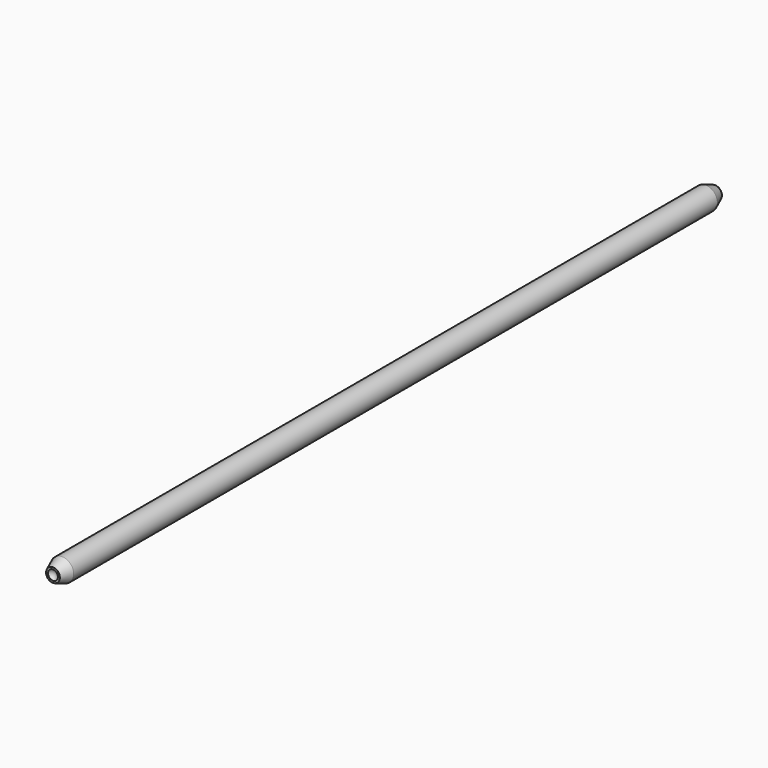
from build123d import *

# Parameters (mm, degrees)
SKETCH_R      = 1
PAD_DEPTH     = 36
CHAMFER_SIZE2 = 0.4
CHAMFER_SIZE  = 1


with BuildPart() as part:
    # Sketch → Pad (new body, symmetric)
    with BuildSketch(Plane.XZ):
        Circle(SKETCH_R)
    extrude(amount=PAD_DEPTH, both=True)

    # Chamfer
    chamfer_edges = [part.edges().sort_by_distance(p)[0] for p in [
        (-1, -36, 0),
        (-1, 36, 0),
    ]]
    chamfer_side = part.faces().sort_by_distance((-1, 0, 0))[0]
    chamfer(chamfer_edges, length=CHAMFER_SIZE, length2=CHAMFER_SIZE2, reference=chamfer_side)

    # Sketch002 (on YZ_Plane of Origin) → Groove (revolve, cut)
    with BuildSketch(Plane.YZ):
        with BuildLine():
            ThreePointArc((-35.75, 0), (-36.25, 0.5), (-36.75, 0))
            Line((-36.75, 0), (-35.75, 0))
        make_face()
    groove = revolve(axis=Axis((0, 0, 0), (0, 1, 0)), mode=Mode.SUBTRACT)

    # Mirrored: Groove across XZ
    add(groove.mirror(Plane.XZ), mode=Mode.SUBTRACT)


solid = part.part
